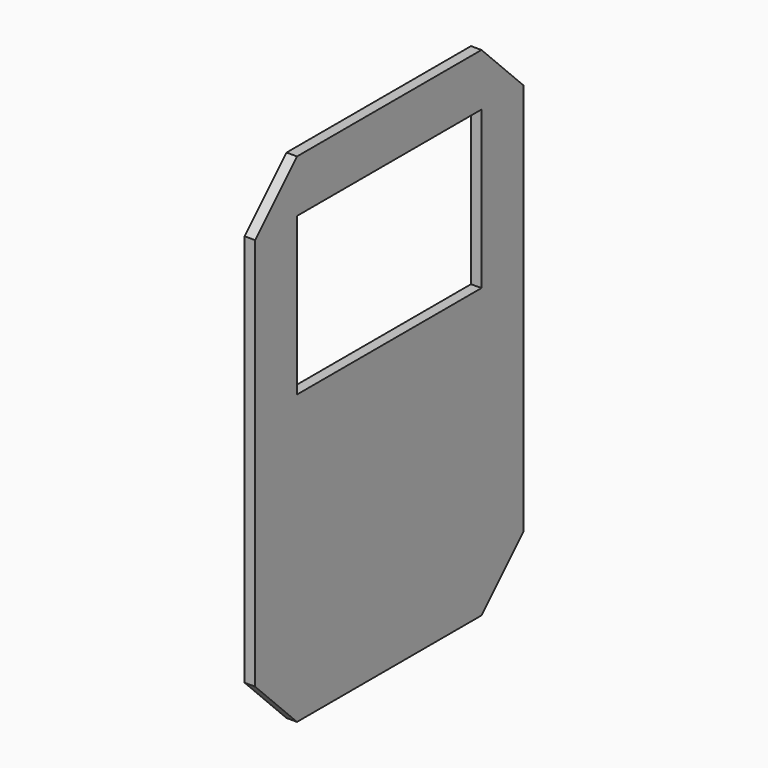
from build123d import *

# Parameters (mm, degrees)
PAD_DEPTH    = 20
SKETCH001_W  = 440
SKETCH001_H  = 300
POCKET_DEPTH = 20


with BuildPart() as part:
    # Sketch → Pad (new body)
    with BuildSketch(Plane.YZ):
        Polygon((-220, 475), (220, 475), (320, 375), (320, -375), (220, -475), (-220, -475), (-320, -375), (-320, 375), align=None)
    extrude(amount=PAD_DEPTH)

    # Sketch001 (on Face10 of Pad) → Pocket (cut)
    with BuildSketch(Plane.YZ.offset(20)):
        with Locations((0, 225)):
            Rectangle(SKETCH001_W, SKETCH001_H)
    extrude(amount=-POCKET_DEPTH, mode=Mode.SUBTRACT)


solid = part.part
